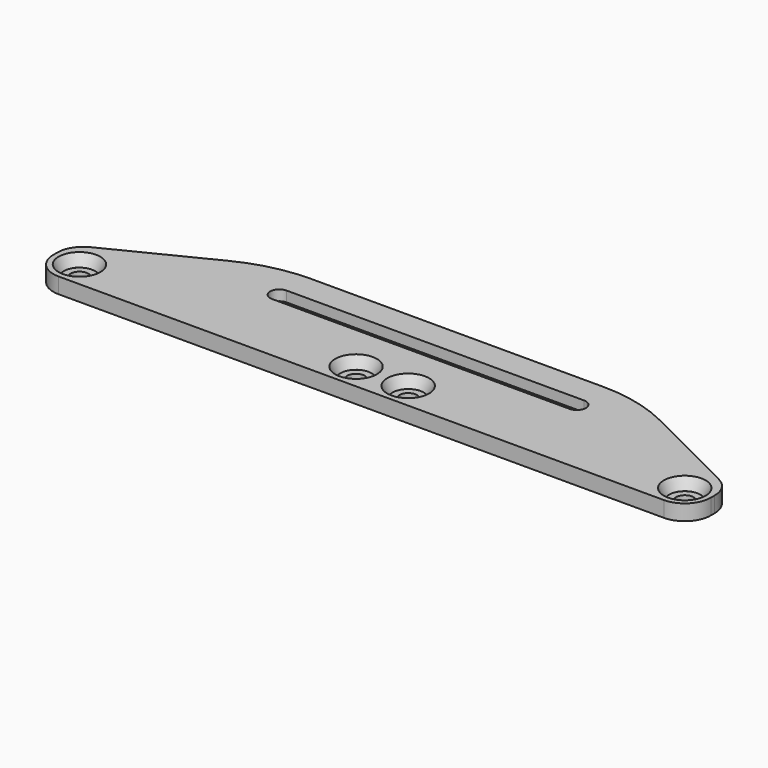
from build123d import *

# Parameters (mm, degrees)
BOX001_W            = 126
BOX001_H            = 23
BOX001_DEPTH        = 3
HOLE003_D           = 3.4
HOLE003_DEPTH       = 24
HOLE003_CBORE_D     = 6
HOLE003_CBORE_DEPTH = 2.1
POCKET_DEPTH        = 1
POCKET001_DEPTH     = 5
CHAMFER_SIZE2       = 2.09
CHAMFER_SIZE        = 1
FILLET001_R         = 5
CHAMFER001_SIZE2    = 14
CHAMFER001_SIZE     = 28
CHAMFER002_SIZE2    = 14
CHAMFER002_SIZE     = 28
FILLET002_R         = 5
FILLET003_R         = 30


with BuildPart() as part:
    # Box001 → Box001 (join)
    with BuildSketch(Plane.XY):
        with Locations((63, 11.5)):
            Rectangle(BOX001_W, BOX001_H)
    extrude(amount=BOX001_DEPTH)

    # Hole003
    with Locations(Plane.XY.offset(3)):
        with Locations((5, 5), (58, 5), (68, 5), (121, 5)):
            CounterBoreHole(HOLE003_D / 2, HOLE003_CBORE_D / 2, HOLE003_CBORE_DEPTH, depth=HOLE003_DEPTH)

    # Sketch006 (on Face5 of Hole003) → Pocket (cut)
    with BuildSketch(Plane(origin=(0, 0, 0), x_dir=(1, 0, 0), z_dir=(0, 0, -1))):
        with BuildLine():
            ThreePointArc((34.5, -12.5), (31, -16), (34.5, -19.5))
            Line((34.5, -19.5), (91.5, -19.5))
            ThreePointArc((91.5, -19.5), (95, -16), (91.5, -12.5))
            Line((34.5, -12.5), (91.5, -12.5))
        make_face()
    extrude(amount=-POCKET_DEPTH, mode=Mode.SUBTRACT)

    # Sketch007 (on Face23 of Pocket) → Pocket001 (cut)
    with BuildSketch(Plane(origin=(0, 0, 1), x_dir=(1, 0, 0), z_dir=(0, 0, -1))):
        with BuildLine():
            ThreePointArc((34.5, -14.25), (32.75, -16), (34.5, -17.75))
            Line((34.5, -17.75), (91.5, -17.75))
            ThreePointArc((91.5, -17.75), (93.25, -16), (91.5, -14.25))
            Line((34.5, -14.25), (91.5, -14.25))
        make_face()
    extrude(amount=-POCKET001_DEPTH, mode=Mode.SUBTRACT)

    # Chamfer
    chamfer_edges = [part.edges().sort_by_distance(p)[0] for p in [
        (2, 5, 3),
        (55, 5, 3),
        (65, 5, 3),
        (118, 5, 3),
    ]]
    chamfer_side = part.faces().sort_by_distance((63, 11.420058, 3))[0]
    chamfer(chamfer_edges, length=CHAMFER_SIZE, length2=CHAMFER_SIZE2, reference=chamfer_side)

    # Fillet001
    fillet001_edges = [part.edges().sort_by_distance(p)[0] for p in [
        (0, 0, 1.5),
        (126, 0, 1.5),
    ]]
    fillet(fillet001_edges, radius=FILLET001_R)

    # Chamfer001
    chamfer001_edges = [part.edges().sort_by_distance(p)[0] for p in [
        (126, 23, 1.5),
    ]]
    chamfer001_side = part.faces().sort_by_distance((63, 23, 1.5))[0]
    chamfer(chamfer001_edges, length=CHAMFER001_SIZE, length2=CHAMFER001_SIZE2, reference=chamfer001_side)

    # Chamfer002
    chamfer002_edges = [part.edges().sort_by_distance(p)[0] for p in [
        (0, 23, 1.5),
    ]]
    chamfer002_side = part.faces().sort_by_distance((49, 23, 1.5))[0]
    chamfer(chamfer002_edges, length=CHAMFER002_SIZE, length2=CHAMFER002_SIZE2, reference=chamfer002_side)

    # Fillet002
    fillet002_edges = [part.edges().sort_by_distance(p)[0] for p in [
        (0, 9, 1.5),
        (126, 9, 1.5),
    ]]
    fillet(fillet002_edges, radius=FILLET002_R)

    # Fillet003
    fillet003_edges = [part.edges().sort_by_distance(p)[0] for p in [
        (28, 23, 1.5),
        (98, 23, 1.5),
    ]]
    fillet(fillet003_edges, radius=FILLET003_R)


solid = part.part
